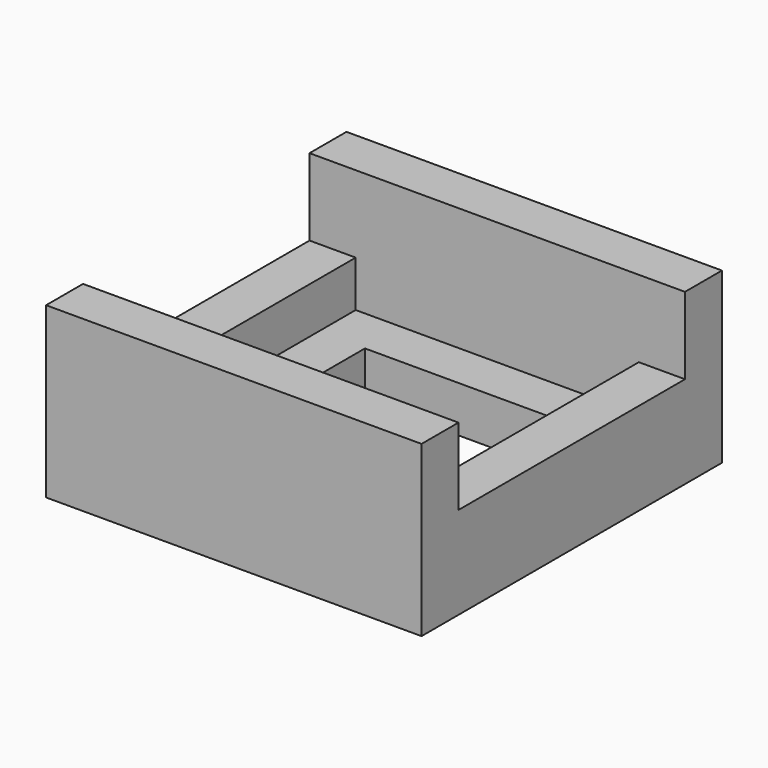
from build123d import *

# Parameters (mm, degrees)
F0_W     = 24.4
F0_H     = 24.4
F0_W_2   = 18.4
F0_H_2   = 18.4
F1_DEPTH = 3
F2_W     = 24.4
F2_H     = 24.4
F2_W_2   = 12.4
F2_H_2   = 12.4
F3_DEPTH = 3
F4_W     = 24.4
F4_H     = 3
F5_DEPTH = 5


with BuildPart() as f1:
    # F0 (on Top) → F1 (new body)
    with BuildSketch(Plane.XY):
        Rectangle(F0_W, F0_H)
        Rectangle(F0_W_2, F0_H_2, mode=Mode.SUBTRACT)
    extrude(amount=F1_DEPTH)

    # F2 (on face) → F3 (join)
    with BuildSketch(Plane(origin=(0, 0, 0), x_dir=(1, 0, 0), z_dir=(0, 0, -1))):
        Rectangle(F2_W, F2_H)
        Rectangle(F2_W_2, F2_H_2, mode=Mode.SUBTRACT)
    extrude(amount=F3_DEPTH)

    # F4 (on face) → F5 (join)
    with BuildSketch(Plane.XY.offset(3)):
        with Locations((0, -10.7)):
            Rectangle(F4_W, F4_H)
        with Locations((0, 10.7)):
            Rectangle(F4_W, F4_H)
    extrude(amount=F5_DEPTH)


solid = f1.part
